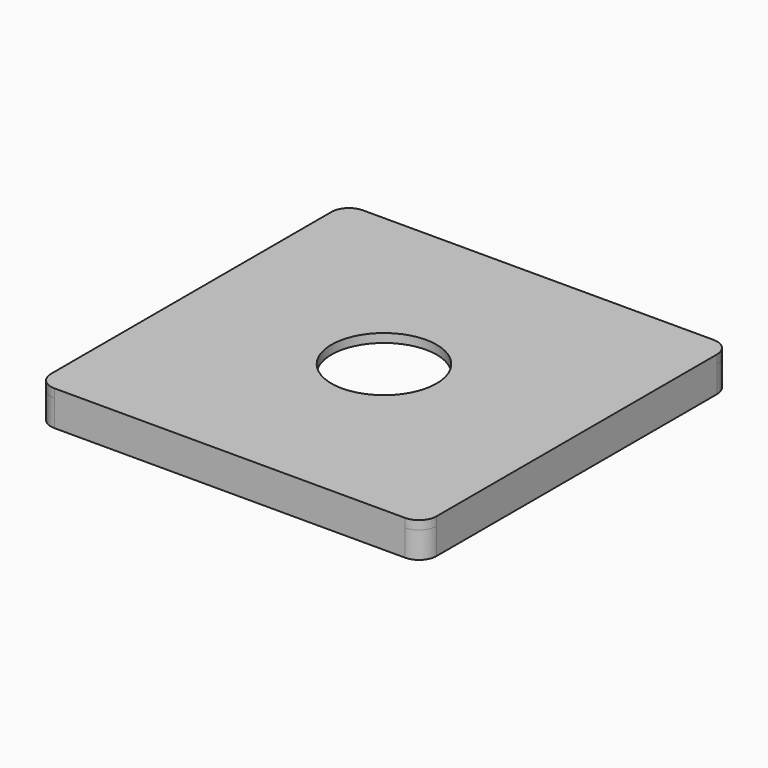
from build123d import *

# Parameters (mm, degrees)
F0_W     = 11
F0_H     = 11
F0_W_2   = 7
F0_H_2   = 7
F1_DEPTH = 0.75
F2_R     = 0.5
F4_DEPTH = 0.25
F5_R     = 1.5
F6_DEPTH = 1.001


with BuildPart() as f1:
    # F0 (on Top) → F1 (new body)
    with BuildSketch(Plane.XY):
        with Locations((3.5, 3.5)):
            Rectangle(F0_W, F0_H)
        with Locations((3.5, 3.5)):
            Rectangle(F0_W_2, F0_H_2, mode=Mode.SUBTRACT)
    extrude(amount=F1_DEPTH)

    # F2
    f2_edges = [f1.edges().sort_by_distance(p)[0] for p in [
        (0, 7, 0.375),
        (7, 7, 0.375),
        (9, 9, 0.375),
        (-2, 9, 0.375),
        (-2, -2, 0.375),
        (9, -2, 0.375),
        (0, 0, 0.375),
        (7, 0, 0.375),
    ]]
    fillet(f2_edges, radius=F2_R)

    # F3 (on face) → F4 (join)
    with BuildSketch(Plane.XY.offset(0.75)):
        with BuildLine():
            ThreePointArc((-2, -1.5), (-1.8535533906, -1.8535533906), (-1.5, -2))
            Line((-1.5, -2), (8.5, -2))
            ThreePointArc((8.5, -2), (8.8535533906, -1.8535533906), (9, -1.5))
            Line((9, -1.5), (9, 8.5))
            ThreePointArc((9, 8.5), (8.8535533906, 8.8535533906), (8.5, 9))
            Line((8.5, 9), (-1.5, 9))
            ThreePointArc((-1.5, 9), (-1.8535533906, 8.8535533906), (-2, 8.5))
            Line((-2, 8.5), (-2, -1.5))
        make_face()
        with BuildLine():
            ThreePointArc((7, 0.5), (6.8535533906, 0.1464466094), (6.5, 0))
            Line((6.5, 0), (0.5, 0))
            ThreePointArc((0.5, 0), (0.1464466094, 0.1464466094), (0, 0.5))
            Line((0, 0.5), (0, 6.5))
            ThreePointArc((0, 6.5), (0.1464466094, 6.8535533906), (0.5, 7))
            Line((0.5, 7), (6.5, 7))
            ThreePointArc((6.5, 7), (6.8535533906, 6.8535533906), (7, 6.5))
            Line((7, 6.5), (7, 0.5))
        make_face(mode=Mode.SUBTRACT)
        with BuildLine():
            Line((0.5, 0), (6.5, 0))
            ThreePointArc((6.5, 0), (6.8535533906, 0.1464466094), (7, 0.5))
            Line((7, 0.5), (7, 6.5))
            ThreePointArc((7, 6.5), (6.8535533906, 6.8535533906), (6.5, 7))
            Line((6.5, 7), (0.5, 7))
            ThreePointArc((0.5, 7), (0.1464466094, 6.8535533906), (0, 6.5))
            Line((0, 6.5), (0, 0.5))
            ThreePointArc((0, 0.5), (0.1464466094, 0.1464466094), (0.5, 0))
        make_face()
    extrude(amount=F4_DEPTH)

    # F5 (on face) → F6 (cut, through all)
    with BuildSketch(Plane.XY.offset(1)):
        with Locations((3.5, 3.5)):
            Circle(F5_R)
    extrude(amount=-F6_DEPTH, mode=Mode.SUBTRACT)


solid = f1.part
